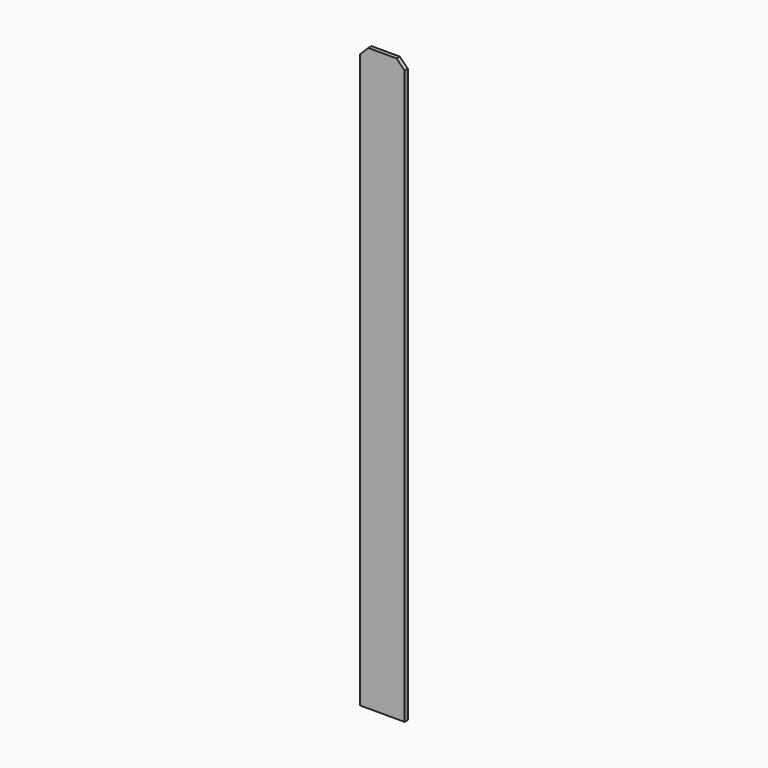
from build123d import *

# Parameters (mm, degrees)
F0_W     = 139.7
F0_H     = 12.7
F1_DEPTH = 1828.8
F2_SIZE  = 25.4


with BuildPart() as f1:
    # F0 (on Top) → F1 (new body)
    with BuildSketch(Plane.XY):
        with Locations((69.85, 6.35)):
            Rectangle(F0_W, F0_H)
    extrude(amount=F1_DEPTH)

    # F2
    f2_edges = [f1.edges().sort_by_distance(p)[0] for p in [
        (139.7, 6.35, 1828.8),
        (0, 6.35, 1828.8),
    ]]
    chamfer(f2_edges, length=F2_SIZE)


solid = f1.part
